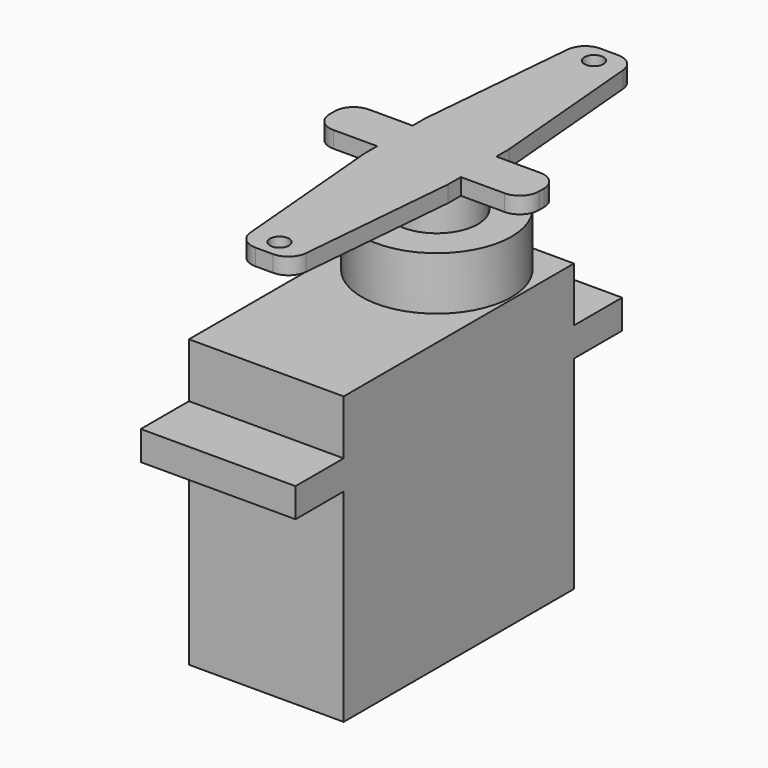
from build123d import *

# Parameters (mm, degrees)
F0_W           = 12.2
F0_H           = 22.7
F1_DEPTH       = 16
F2_W           = 12.2
F2_H           = 32.2
F3_DEPTH       = 2.3
F4_W           = 12.2
F4_H           = 22.7
F5_DEPTH       = 4.3
F6_R           = 5.9
F6_R_2         = 2.3
F7_DEPTH       = 4.2
F8_W           = 3.3
F8_H           = 1
F9_DEPTH       = 5
F10_R          = 3.25
F11_DEPTH      = 4
F11_DEPTH_BACK = 3
F12_R          = 0.75
F13_DEPTH      = 1.3
F14_SIZE2      = 1.2248412894
F14_SIZE       = 14
F14_2_SIZE2    = 1.2248412894
F14_2_SIZE     = 14
F14_3_SIZE2    = 1.2248412894
F14_3_SIZE     = 14
F15_SIZE2      = 1.2248412894
F15_SIZE       = 14
F16_R          = 1.5


with BuildPart() as f1:
    # F0 (on Top) → F1 (new body)
    with BuildSketch(Plane.XY):
        Rectangle(F0_W, F0_H)
    extrude(amount=F1_DEPTH)

    # F2 (on face) → F3 (join)
    with BuildSketch(Plane.XY.offset(16)):
        Rectangle(F2_W, F2_H)
    extrude(amount=F3_DEPTH)

    # F4 (on face) → F5 (join)
    with BuildSketch(Plane.XY.offset(18.3)):
        Rectangle(F4_W, F4_H)
    extrude(amount=F5_DEPTH)

    # F6 (on face) → F7 (join)
    with BuildSketch(Plane.XY.offset(22.6)):
        with Locations((0, 5.45)):
            Circle(F6_R)
        with Locations((0, 5.45)):
            Circle(F6_R_2, mode=Mode.SUBTRACT)
    extrude(amount=F7_DEPTH)

    # F8 (on face) → F9 (join)
    with BuildSketch(Plane(origin=(0, 11.35, 0), x_dir=(-1, 0, 0), z_dir=(0, 1, 0))):
        with Locations((0, 4.3)):
            Rectangle(F8_W, F8_H)
    extrude(amount=F9_DEPTH)


with BuildPart() as f11:
    # F10 (on face) → F11 (new body, two sides)
    with BuildSketch(Plane.XY.offset(26.8)) as f11_sk:
        with Locations((0, 5.45)):
            Circle(F10_R)
    extrude(amount=F11_DEPTH)
    extrude(f11_sk.sketch, amount=-F11_DEPTH_BACK)

    # F12 (on face) → F13 (join)
    with BuildSketch(Plane.XY.offset(30.8)):
        Polygon((3.3, 7.2), (3.3, 22.45), (-3.3, 22.45), (-3.3, 7.2), (-8.25, 7.2), (-8.25, 3.7), (-3.3, 3.7), (-3.3, -11.55), (3.3, -11.55), (3.3, 3.7), (8.25, 3.7), (8.25, 7.2), align=None)
        with Locations((0, -10.05)):
            Circle(F12_R, mode=Mode.SUBTRACT)
        with Locations((0, 20.95)):
            Circle(F12_R, mode=Mode.SUBTRACT)
    extrude(amount=-F13_DEPTH)

    # F14
    f14_edges = [f11.edges().sort_by_distance(p)[0] for p in [
        (-3.3, -11.55, 30.15),
    ]]
    f14_side = f11.faces().sort_by_distance((-3.3, -3.925, 30.15))[0]
    chamfer(f14_edges, length=F14_SIZE, length2=F14_SIZE2, reference=f14_side)

    # F14#2
    f14_2_edges = [f11.edges().sort_by_distance(p)[0] for p in [
        (3.3, -11.55, 30.15),
    ]]
    f14_2_side = f11.faces().sort_by_distance((3.3, -3.925, 30.15))[0]
    chamfer(f14_2_edges, length=F14_2_SIZE, length2=F14_2_SIZE2, reference=f14_2_side)

    # F14#3
    f14_3_edges = [f11.edges().sort_by_distance(p)[0] for p in [
        (3.3, 22.45, 30.15),
    ]]
    f14_3_side = f11.faces().sort_by_distance((3.3, 14.825, 30.15))[0]
    chamfer(f14_3_edges, length=F14_3_SIZE, length2=F14_3_SIZE2, reference=f14_3_side)

    # F15
    f15_edges = [f11.edges().sort_by_distance(p)[0] for p in [
        (-3.3, 22.45, 30.15),
    ]]
    f15_side = f11.faces().sort_by_distance((-3.3, 14.825, 30.15))[0]
    chamfer(f15_edges, length=F15_SIZE, length2=F15_SIZE2, reference=f15_side)

    # F16
    f16_edges = [f11.edges().sort_by_distance(p)[0] for p in [
        (-2.075159, 22.45, 30.15),
        (2.075159, 22.45, 30.15),
        (-8.25, 7.2, 30.15),
        (-8.25, 3.7, 30.15),
        (8.25, 7.2, 30.15),
        (8.25, 3.7, 30.15),
        (2.075159, -11.55, 30.15),
        (-2.075159, -11.55, 30.15),
    ]]
    fillet(f16_edges, radius=F16_R)


solid = Compound([f1.part, f11.part])
